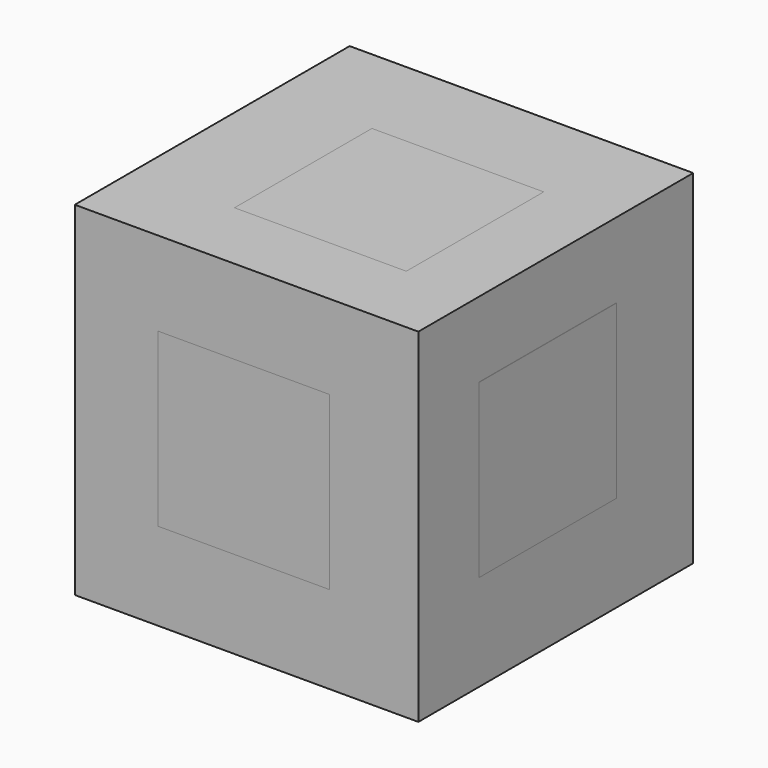
from build123d import *

# Parameters (mm, degrees)
F0_W      = 25.4
F0_H      = 25.4
F1_DEPTH  = 25.4
F2_W      = 12.7
F2_H      = 12.7
F3_DEPTH  = 3.175
F4_W      = 12.7
F4_H      = 12.7
F5_DEPTH  = 3.175
F6_W      = 12.7
F6_H      = 12.7
F7_DEPTH  = 3.175
F8_W      = 12.7
F8_H      = 12.7
F9_DEPTH  = 3.175
F10_W     = 12.7
F10_H     = 12.7
F11_DEPTH = 3.175
F12_W     = 12.7
F12_H     = 12.7
F13_DEPTH = 3.175
F15_DEPTH = 3.175
F16_W     = 12.7
F16_H     = 12.7
F17_DEPTH = 3.175
F18_W     = 12.7
F18_H     = 12.7
F19_DEPTH = 3.175
F20_W     = 12.7
F20_H     = 12.7
F21_DEPTH = 3.175
F22_W     = 12.7
F22_H     = 12.7
F23_DEPTH = 3.175
F24_W     = 12.7
F24_H     = 12.7
F25_DEPTH = 3.175
F26_W     = 12.7
F26_H     = 12.7
F27_DEPTH = 3.175


with BuildPart() as f1:
    # F0 (on Top) → F1 (new body)
    with BuildSketch(Plane.XY):
        with Locations((-1.9504367398, 2.3024473339)):
            Rectangle(F0_W, F0_H)
    extrude(amount=F1_DEPTH)

    # F2 (on face) → F3 (cut)
    with BuildSketch(Plane.XY.offset(25.4)):
        with Locations((-0.8634175174, 1.4158068735)):
            Rectangle(F2_W, F2_H)
    extrude(amount=-F3_DEPTH, mode=Mode.SUBTRACT)

    # F4 (on face) → F5 (cut)
    with BuildSketch(Plane.XZ.offset(10.3975526661)):
        with Locations((-2.158543095, 12.826214382)):
            Rectangle(F4_W, F4_H)
    extrude(amount=-F5_DEPTH, mode=Mode.SUBTRACT)

    # F6 (on face) → F7 (cut)
    with BuildSketch(Plane(origin=(-14.6504367398, 0, 0), x_dir=(0, -1, 0), z_dir=(-1, 0, 0))):
        with Locations((-1.7675558338, 10.4799354449)):
            Rectangle(F6_W, F6_H)
    extrude(amount=-F7_DEPTH, mode=Mode.SUBTRACT)

    # F8 (on face) → F9 (cut)
    with BuildSketch(Plane.YZ.offset(10.7495632602)):
        with Locations((1.576210605, 13.4627558291)):
            Rectangle(F8_W, F8_H)
    extrude(amount=-F9_DEPTH, mode=Mode.SUBTRACT)

    # F10 (on face) → F11 (cut)
    with BuildSketch(Plane(origin=(0, 0, 0), x_dir=(1, 0, 0), z_dir=(0, 0, -1))):
        with Locations((-4.5761787333, -3.4609017894)):
            Rectangle(F10_W, F10_H)
    extrude(amount=-F11_DEPTH, mode=Mode.SUBTRACT)

    # F12 (on face) → F13 (cut)
    with BuildSketch(Plane(origin=(0, 15.0024473339, 0), x_dir=(-1, 0, 0), z_dir=(0, 1, 0))):
        with Locations((0.7663230645, 13.4986708872)):
            Rectangle(F12_W, F12_H)
    extrude(amount=-F13_DEPTH, mode=Mode.SUBTRACT)


with BuildPart() as f15:
    # F14 (on face) → F15 (new body)
    with BuildSketch(Plane.YZ.offset(7.5745632602)):
        Polygon((7.9185329378, 19.842589274), (-4.781419877, 19.842589274), (-4.781419877, 7.2042862885), (-4.773789395, 7.2042862885), (-4.773789395, 19.8127558291), (7.9185329378, 19.8127558291), align=None)
    extrude(amount=F15_DEPTH)


with BuildPart() as f17:
    # F16 (on face) → F17 (new body)
    with BuildSketch(Plane.XY.offset(22.225)):
        with Locations((-0.8634175174, 1.4158068735)):
            Rectangle(F16_W, F16_H)
    extrude(amount=F17_DEPTH)


with BuildPart() as f19:
    # F18 (on face) → F19 (new body)
    with BuildSketch(Plane.YZ.offset(7.5745632602)):
        with Locations((1.576210605, 13.4627558291)):
            Rectangle(F18_W, F18_H)
    extrude(amount=F19_DEPTH)


with BuildPart() as f21:
    # F20 (on face) → F21 (new body)
    with BuildSketch(Plane.XZ.offset(7.2225526661)):
        with Locations((-2.158543095, 12.826214382)):
            Rectangle(F20_W, F20_H)
    extrude(amount=F21_DEPTH)


with BuildPart() as f23:
    # F22 (on face) → F23 (new body)
    with BuildSketch(Plane(origin=(-11.4754367398, 0, 0), x_dir=(0, -1, 0), z_dir=(-1, 0, 0))):
        with Locations((-1.7675558338, 10.4799354449)):
            Rectangle(F22_W, F22_H)
    extrude(amount=F23_DEPTH)


with BuildPart() as f25:
    # F24 (on face) → F25 (new body)
    with BuildSketch(Plane(origin=(0, 11.8274473339, 0), x_dir=(-1, 0, 0), z_dir=(0, 1, 0))):
        with Locations((0.7663230645, 13.4986708872)):
            Rectangle(F24_W, F24_H)
    extrude(amount=F25_DEPTH)


with BuildPart() as f27:
    # F26 (on face) → F27 (new body)
    with BuildSketch(Plane(origin=(0, 0, 3.175), x_dir=(1, 0, 0), z_dir=(0, 0, -1))):
        with Locations((-4.5761787333, -3.4609017894)):
            Rectangle(F26_W, F26_H)
    extrude(amount=F27_DEPTH)


solid = Compound([f1.part, f15.part, f17.part, f19.part, f21.part, f23.part, f25.part, f27.part])
